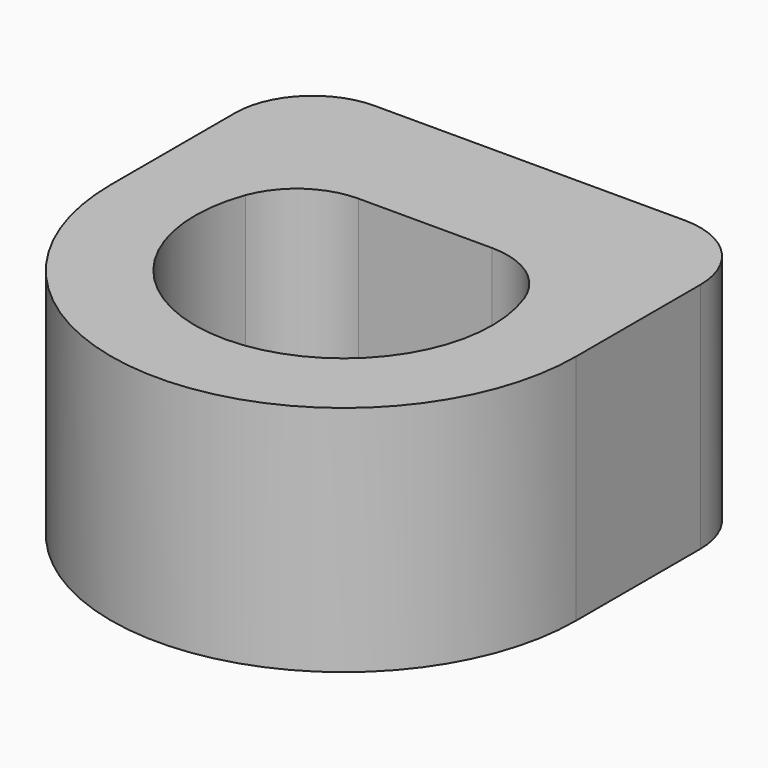
from build123d import *

# Parameters (mm, degrees)
F1_DEPTH = 38.1


with BuildPart() as f1:
    # F0 (on Top) → F1 (new body)
    with BuildSketch(Plane.XY):
        with BuildLine():
            Line((-38.1, 25.4), (-38.1, 0))
            ThreePointArc((-38.1, 0), (0, -38.1), (38.1, 0))
            Line((38.1, 0), (38.1, 25.4))
            ThreePointArc((38.1, 25.4), (34.380256, 34.380256), (25.4, 38.1))
            Line((25.4, 38.1), (0, 38.1))
            Line((0, 38.1), (-25.4, 38.1))
            ThreePointArc((-25.4, 38.1), (-34.380256, 34.380256), (-38.1, 25.4))
        make_face()
        with BuildLine():
            ThreePointArc((22.849819, 8.417652), (0, -24.350998), (-22.849819, 8.417652))
            ThreePointArc((-22.849819, 8.417652), (-18.196877, 14.444923), (-10.932743, 16.727516))
            Line((-10.932743, 16.727516), (0, 16.727516))
            Line((0, 16.727516), (10.932743, 16.727516))
            ThreePointArc((10.932743, 16.727516), (18.196877, 14.444923), (22.849819, 8.417652))
        make_face(mode=Mode.SUBTRACT)
    extrude(amount=F1_DEPTH)


solid = f1.part
